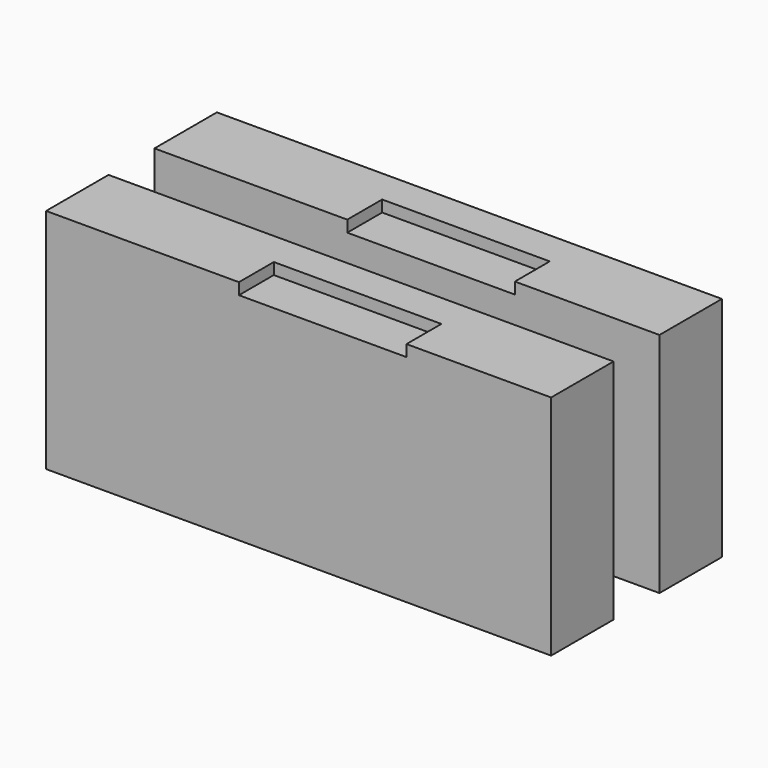
from build123d import *

# Parameters (mm, degrees)
SKETCH001005015_W = 19
SKETCH001005015_H = 73
EXTRUDE013_DEPTH  = 5
SKETCH001005004_W = 220
SKETCH001005004_H = 34
EXTRUDE012_DEPTH  = 99


with BuildPart() as con_holes:
    # Sketch001005015 (on Face12 of Extrude012) → Extrude013 (new body)
    with BuildSketch(Plane(origin=(55, -212.25, 99), x_dir=(0, 1, 0), z_dir=(0, 0, 1))):
        with Locations((22, -10.5)):
            Rectangle(SKETCH001005015_W, SKETCH001005015_H)
        with Locations((-37, -10.5)):
            Rectangle(SKETCH001005015_W, SKETCH001005015_H)
    extrude(amount=-EXTRUDE013_DEPTH)


with BuildPart() as obj1:
    # Sketch001005004 → Extrude012 (new body)
    with BuildSketch(Plane.XY):
        with Locations((55, -182.75)):
            Rectangle(SKETCH001005004_W, SKETCH001005004_H)
        with Locations((55, -241.75)):
            Rectangle(SKETCH001005004_W, SKETCH001005004_H)
    extrude(amount=EXTRUDE012_DEPTH)

    # Cut002: cut Con-Holes
    add(con_holes.part, mode=Mode.SUBTRACT)


solid = obj1.part
